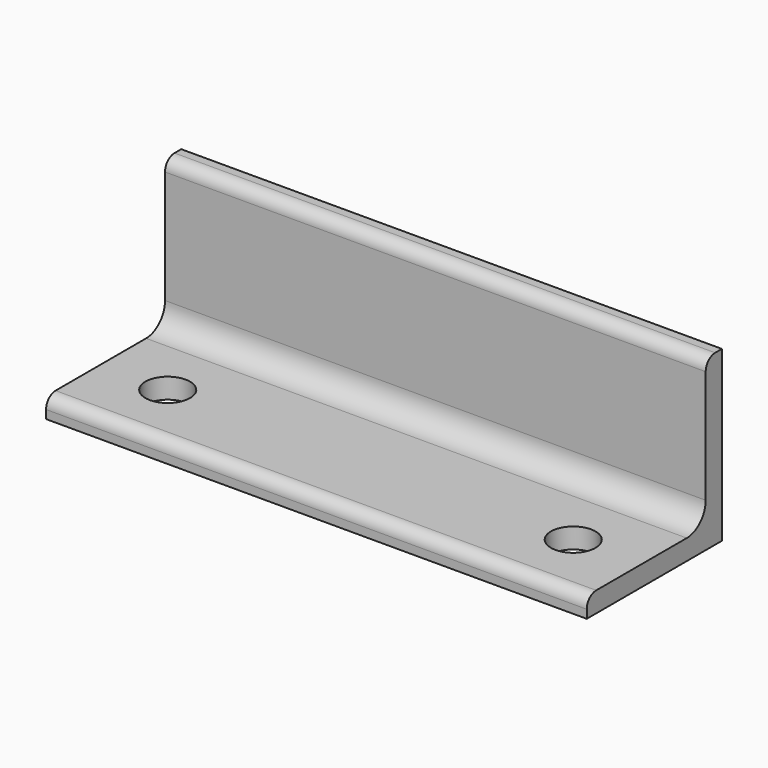
from build123d import *

# Parameters (mm, degrees)
PAD_DEPTH   = 40
SKETCH001_R = 3.3
HOLE_DEPTH  = 3.001


with BuildPart() as part:
    # Sketch → Pad (new body, symmetric)
    with BuildSketch(Plane.YZ):
        with BuildLine():
            Line((0, 25), (0, 0))
            Line((0, 0), (-25, 0))
            Line((-25, 0), (-25, 1.25))
            ThreePointArc((-23.25, 3), (-24.487437, 2.487437), (-25, 1.25))
            Line((-23.25, 3), (-6.5, 3))
            ThreePointArc((-6.5, 3), (-4.025126, 4.025126), (-3, 6.5))
            Line((-3, 6.5), (-3, 23.25))
            ThreePointArc((-1.25, 25), (-2.487437, 24.487437), (-3, 23.25))
            Line((0, 25), (-1.25, 25))
        make_face()
    extrude(amount=PAD_DEPTH, both=True)

    # Sketch001 (on Face6 of Pad) → Hole (cut, through all)
    with BuildSketch(Plane(origin=(0, 0, 3), x_dir=(0, -1, 0), z_dir=(0, 0, 1))):
        with Locations((15, 30)):
            Circle(SKETCH001_R)
        with Locations((15, -30)):
            Circle(SKETCH001_R)
    extrude(amount=-HOLE_DEPTH, mode=Mode.SUBTRACT)


solid = part.part
